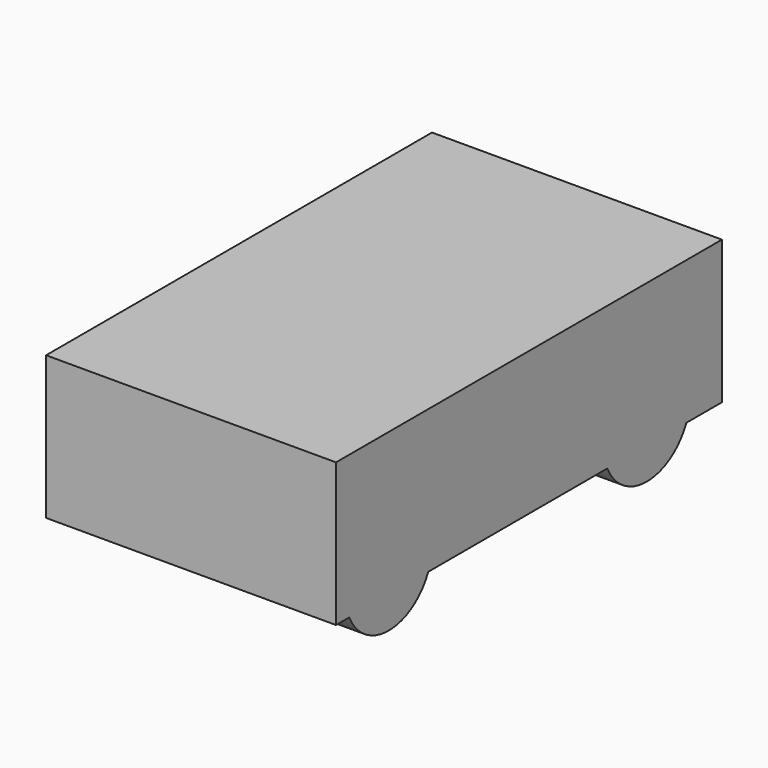
from build123d import *

# Parameters (mm, degrees)
F1_DEPTH = 32


with BuildPart() as f1:
    # F0 (on Right) → F1 (new body, symmetric)
    with BuildSketch(Plane.YZ):
        with BuildLine():
            Line((-37.3383648694, 26.6163813695), (-37.3383648694, -5))
            Line((-37.3383648694, -5), (-33.6996619063, -5))
            ThreePointArc((-33.6996619063, -5), (-25.3498025253, 11.7240041235), (-10.7909497917, 0))
            ThreePointArc((-10.7909497917, 0), (-11.0669456682, -2.5588527336), (-11.882237677, -5))
            Line((-11.882237677, -5), (36.4290502083, -5))
            Line((36.4290502083, -5), (36.4290502083, 0))
            ThreePointArc((36.4290502083, 0), (48.4290502083, 12), (60.4290502083, 0))
            Line((60.4290502083, 0), (60.4290502083, -5))
            Line((60.4290502083, -5), (69.1487081349, -5))
            Line((69.1487081349, -5), (69.1487081349, 26.6163813695))
            Line((69.1487081349, 26.6163813695), (-37.3383648694, 26.6163813695))
        make_face()
        with BuildLine():
            Line((36.4290502083, 0), (36.4290502083, -5))
            Line((36.4290502083, -5), (37.5203380937, -5))
            ThreePointArc((37.5203380937, -5), (36.7050460848, -2.5588527336), (36.4290502083, 0))
        make_face()
        with BuildLine():
            ThreePointArc((-10.7909497917, 0), (-25.3498025253, 11.7240041235), (-33.6996619063, -5))
            Line((-33.6996619063, -5), (-11.882237677, -5))
            ThreePointArc((-11.882237677, -5), (-11.0669456682, -2.5588527336), (-10.7909497917, 0))
        make_face()
        with BuildLine():
            ThreePointArc((36.4290502083, 0), (36.7050460848, -2.5588527336), (37.5203380937, -5))
            Line((37.5203380937, -5), (59.337762323, -5))
            ThreePointArc((59.337762323, -5), (60.1530543318, -2.5588527336), (60.4290502083, 0))
            ThreePointArc((60.4290502083, 0), (48.4290502083, 12), (36.4290502083, 0))
        make_face()
        with BuildLine():
            Line((59.337762323, -5), (60.4290502083, -5))
            Line((60.4290502083, -5), (60.4290502083, 0))
            ThreePointArc((60.4290502083, 0), (60.1530543318, -2.5588527336), (59.337762323, -5))
        make_face()
        with BuildLine():
            Line((-11.882237677, -5), (-33.6996619063, -5))
            ThreePointArc((-33.6996619063, -5), (-22.7909497917, -12), (-11.882237677, -5))
        make_face()
        with BuildLine():
            Line((59.337762323, -5), (37.5203380937, -5))
            ThreePointArc((37.5203380937, -5), (48.4290502083, -12), (59.337762323, -5))
        make_face()
    extrude(amount=F1_DEPTH, both=True)


solid = f1.part
